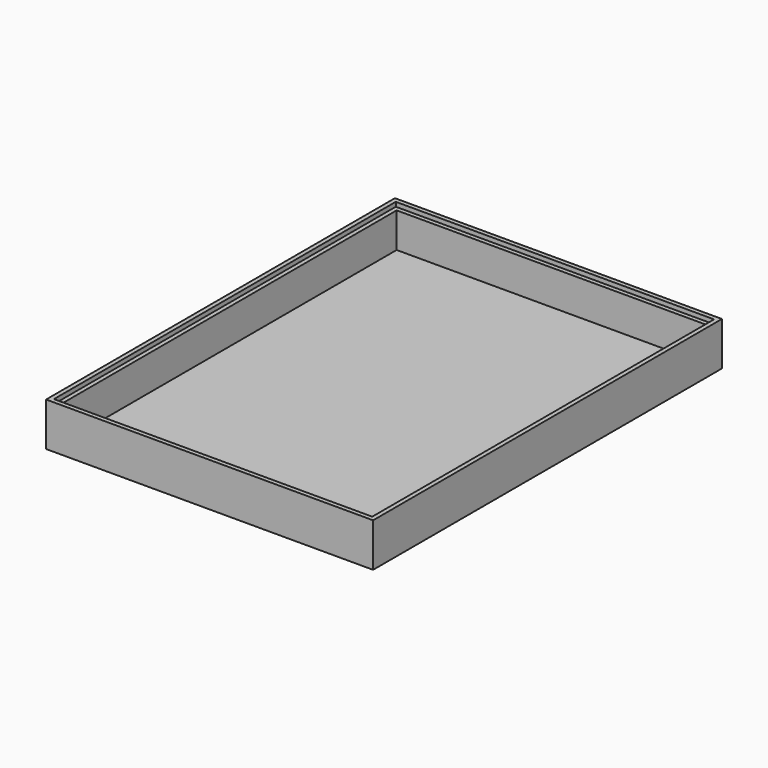
from build123d import *

# Parameters (mm, degrees)
SKETCH_W        = 150
SKETCH_H        = 200
PAD_DEPTH       = 20
SKETCH001_W     = 146
SKETCH001_H     = 196
POCKET_DEPTH    = 2
SKETCH002_W     = 142
SKETCH002_H     = 192
POCKET001_DEPTH = 18


with BuildPart() as part:
    # Sketch → Pad (new body)
    with BuildSketch(Plane.XY):
        Rectangle(SKETCH_W, SKETCH_H)
    extrude(amount=PAD_DEPTH)

    # Sketch001 → Pocket (cut)
    with BuildSketch(Plane.XY.offset(20)):
        Rectangle(SKETCH001_W, SKETCH001_H)
    extrude(amount=-POCKET_DEPTH, mode=Mode.SUBTRACT)

    # Sketch002 → Pocket001 (cut)
    with BuildSketch(Plane.XY.offset(20)):
        Rectangle(SKETCH002_W, SKETCH002_H)
    extrude(amount=-POCKET001_DEPTH, mode=Mode.SUBTRACT)


solid = part.part
